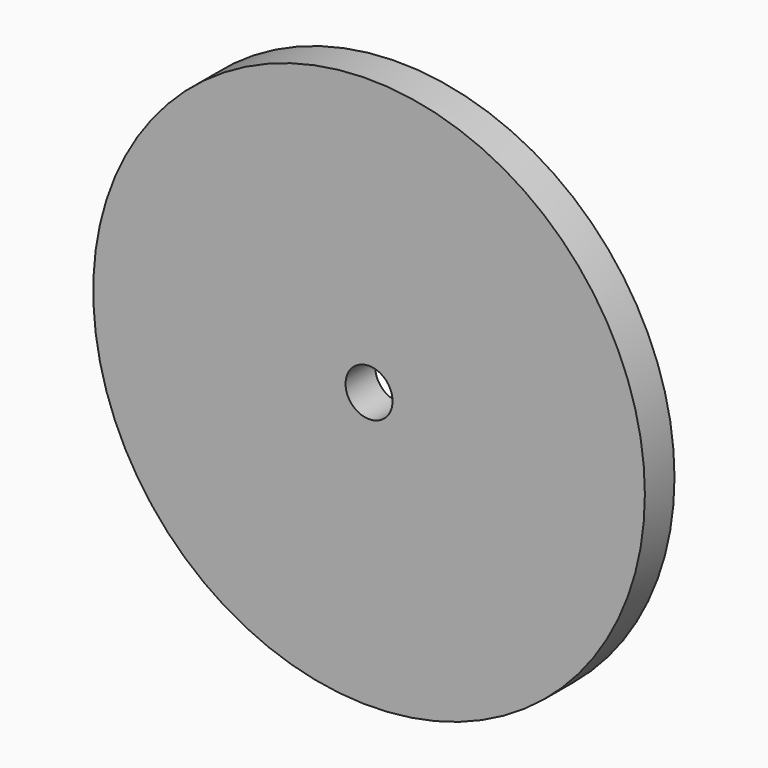
from build123d import *

# Parameters (mm, degrees)
SKETCH016_R     = 34
PAD013_DEPTH    = 6
SKETCH017_R     = 74.5
PAD014_DEPTH    = 4
SKETCH018_R     = 74.5
SKETCH018_R_2   = 65
PAD015_DEPTH    = 6
SKETCH019_R     = 6.35
POCKET003_DEPTH = 10.001


with BuildPart() as part:
    # Sketch016 → Pad013 (new body)
    with BuildSketch(Plane.XZ):
        Circle(SKETCH016_R)
    extrude(amount=PAD013_DEPTH)

    # Sketch017 (on Face3 of Pad013) → Pad014 (join)
    with BuildSketch(Plane.XZ.offset(6)):
        Circle(SKETCH017_R)
    extrude(amount=PAD014_DEPTH)

    # Sketch018 (on Face2 of Pad014) → Pad015 (join)
    with BuildSketch(Plane(origin=(0, -6, 0), x_dir=(1, 0, 0), z_dir=(0, 1, 0))):
        Circle(SKETCH018_R)
        Circle(SKETCH018_R_2, mode=Mode.SUBTRACT)
    extrude(amount=PAD015_DEPTH)

    # Sketch019 (on Face8 of Pad015) → Pocket003 (cut, through all)
    with BuildSketch(Plane(origin=(0, 0, 0), x_dir=(1, 0, 0), z_dir=(0, 1, 0))):
        Circle(SKETCH019_R)
    extrude(amount=-POCKET003_DEPTH, mode=Mode.SUBTRACT)


solid = part.part
